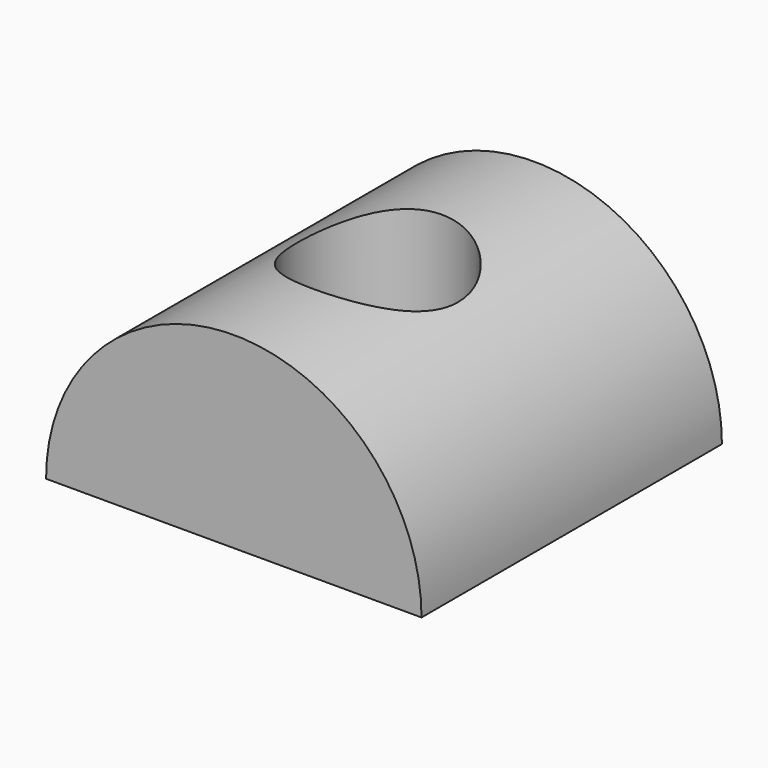
from build123d import *

# Parameters (mm, degrees)
F1_DEPTH = 44.45
F2_R     = 9.525
F3_DEPTH = 22.226


with BuildPart() as f1:
    # F0 (on Front) → F1 (new body)
    with BuildSketch(Plane.XZ):
        with BuildLine():
            ThreePointArc((22.225, 0), (0, 22.225), (-22.225, 0))
            Line((-22.225, 0), (22.225, 0))
        make_face()
    extrude(amount=F1_DEPTH)

    # F2 (on Top) → F3 (cut, through all)
    with BuildSketch(Plane.XY):
        with Locations((0, -23.150489)):
            Circle(F2_R)
    extrude(amount=F3_DEPTH, mode=Mode.SUBTRACT)


solid = f1.part
